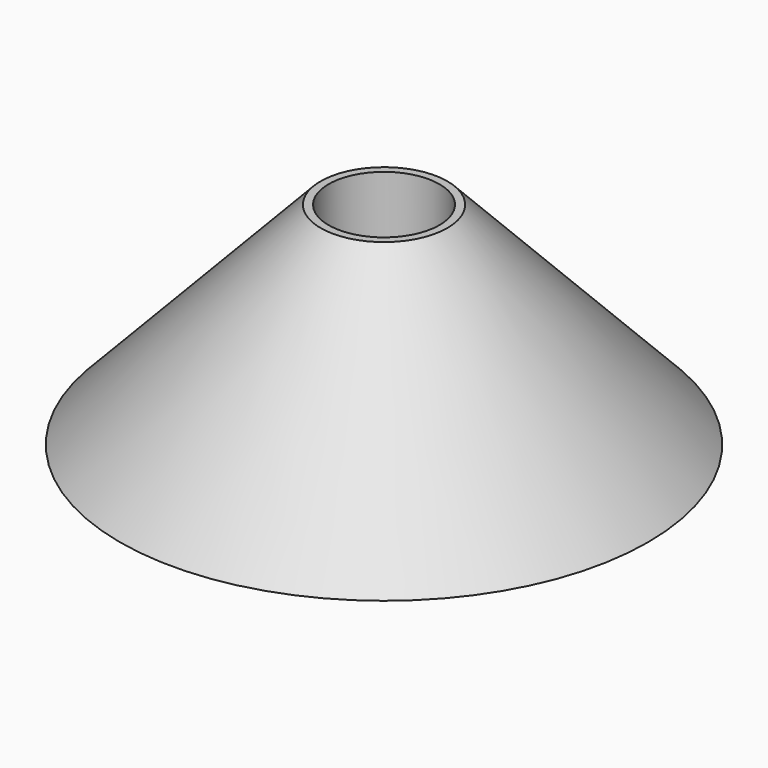
from build123d import *

# Parameters (mm, degrees)
SKETCH_R          = 6
SKETCH001_R       = 25
SKETCH002_R       = 5.25
POCKET_DEPTH      = 0.001
POCKET_DEPTH_BACK = -20.001


with BuildPart() as part:
    # Sketch → AdditiveLoft section 0
    with BuildSketch(Plane.XY.offset(20)):
        Circle(SKETCH_R)
    # Sketch001 → AdditiveLoft section 1
    with BuildSketch(Plane.XY):
        Circle(SKETCH001_R)
    loft()

    # Sketch002 → Pocket (cut, two sides)
    with BuildSketch(Plane.XY) as pocket_sk:
        Circle(SKETCH002_R)
    extrude(amount=-POCKET_DEPTH, mode=Mode.SUBTRACT)
    extrude(pocket_sk.sketch, amount=-POCKET_DEPTH_BACK, mode=Mode.SUBTRACT)


solid = part.part
